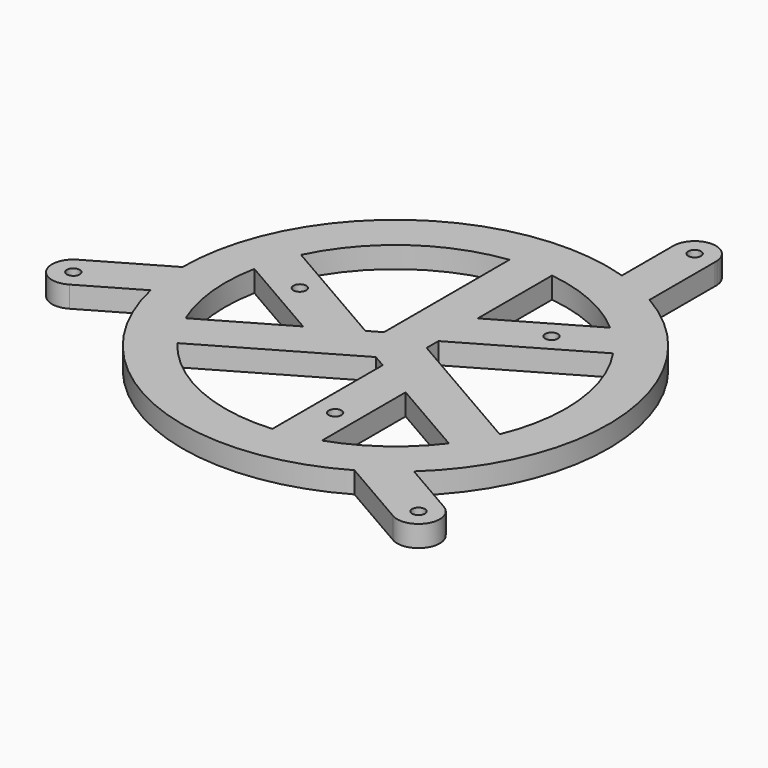
from build123d import *

# Parameters (mm, degrees)
F0_R     = 1.5
F1_DEPTH = 5


with BuildPart() as f1:
    # F0 (on Top) → F1 (new body)
    with BuildSketch(Plane.XY):
        with BuildLine():
            Line((-66.997762, -9.816098), (-66.746263, -9.670895))
            ThreePointArc((-66.746263, -9.670895), (-66.873067, -9.74167), (-66.997762, -9.816098))
        make_face()
        with BuildLine():
            Line((-50, -0.002435), (-66.746263, -9.670895))
            Line((-66.746263, -9.670895), (-66.997762, -9.816098))
            ThreePointArc((-66.997762, -9.816098), (-68.658347, -16.647914), (-61.845861, -18.386102))
            Line((-61.845861, -18.386102), (-48.806802, -10.857998))
            ThreePointArc((-48.806802, -10.857998), (-20.119428, -45.773449), (25.00193, -43.300156))
            Line((25.00193, -43.300156), (41.753731, -52.971813))
            ThreePointArc((41.753731, -52.971813), (48.715022, -51.192214), (46.709909, -44.2925))
            Line((46.709909, -44.2925), (33.804095, -36.841324))
            ThreePointArc((33.804095, -36.841324), (49.70062, 5.463365), (24.993999, 43.304734))
            Line((24.993999, 43.304734), (24.993999, 62.539721))
            Line((24.993999, 62.539721), (24.993999, 63.029498))
            ThreePointArc((24.993999, 63.029498), (19.939778, 67.784247), (15.001551, 62.909136))
            Line((15.001551, 62.909136), (15.001551, 62.660083))
            Line((15.001551, 62.660083), (15.001551, 47.696472))
            ThreePointArc((15.001551, 47.696472), (-29.580725, 40.311049), (-50, -0.002435))
        make_face()
        with Locations((-64.373067, -14.071797)):
            Circle(F0_R, mode=Mode.SUBTRACT)
        with BuildLine():
            Line((-31.869318, -24.173262), (0, -5.773503))
            Line((0, -5.773503), (3, -7.505553))
            Line((3, -7.505553), (3, -39.887341))
            ThreePointArc((3, -39.887341), (-16.43449, -36.467898), (-31.869318, -24.173262))
        make_face(mode=Mode.SUBTRACT)
        with BuildLine():
            Line((-18, -4.618802), (-36.869318, -15.513008))
            ThreePointArc((-36.869318, -15.513008), (-39.788657, -4.10643), (-39.260495, 7.65595))
            Line((-39.260495, 7.65595), (-18, -4.618802))
        make_face(mode=Mode.SUBTRACT)
        with Locations((-28, 6.928203)):
            Circle(F0_R, mode=Mode.SUBTRACT)
        with Locations((8, -27.712813)):
            Circle(F0_R, mode=Mode.SUBTRACT)
        with Locations((44.373067, -48.712813)):
            Circle(F0_R, mode=Mode.SUBTRACT)
        with BuildLine():
            Line((13, -13.279056), (31.869318, -24.173262))
            ThreePointArc((31.869318, -24.173262), (23.450602, -32.404773), (13, -37.828561))
            Line((13, -37.828561), (13, -13.279056))
        make_face(mode=Mode.SUBTRACT)
        with BuildLine():
            ThreePointArc((33.043451, 22.541747), (39.799371, 4.001263), (36.869318, -15.513008))
            Line((36.869318, -15.513008), (5, 2.886751))
            Line((5, 2.886751), (5, 6.350853))
            Line((5, 6.350853), (33.043451, 22.541747))
        make_face(mode=Mode.SUBTRACT)
        with BuildLine():
            ThreePointArc((-36.043451, 17.345594), (-23.364881, 32.466634), (-5, 39.68627))
            Line((-5, 39.68627), (-5, 2.886751))
            Line((-5, 2.886751), (-8, 1.154701))
            Line((-8, 1.154701), (-36.043451, 17.345594))
        make_face(mode=Mode.SUBTRACT)
        with Locations((20, 20.78461)):
            Circle(F0_R, mode=Mode.SUBTRACT)
        with BuildLine():
            Line((5, 17.897858), (5, 39.68627))
            ThreePointArc((5, 39.68627), (16.338055, 36.511203), (26.260495, 30.172611))
            Line((26.260495, 30.172611), (5, 17.897858))
        make_face(mode=Mode.SUBTRACT)
        with Locations((20, 62.78461)):
            Circle(F0_R, mode=Mode.SUBTRACT)
        with BuildLine():
            ThreePointArc((15.001551, 62.909136), (15, 62.78461), (15.001551, 62.660083))
            Line((15.001551, 62.660083), (15.001551, 62.909136))
        make_face()
        with BuildLine():
            ThreePointArc((24.993999, 62.539721), (25, 62.78461), (24.993999, 63.029498))
            Line((24.993999, 63.029498), (24.993999, 62.539721))
        make_face()
    extrude(amount=F1_DEPTH)


solid = f1.part
